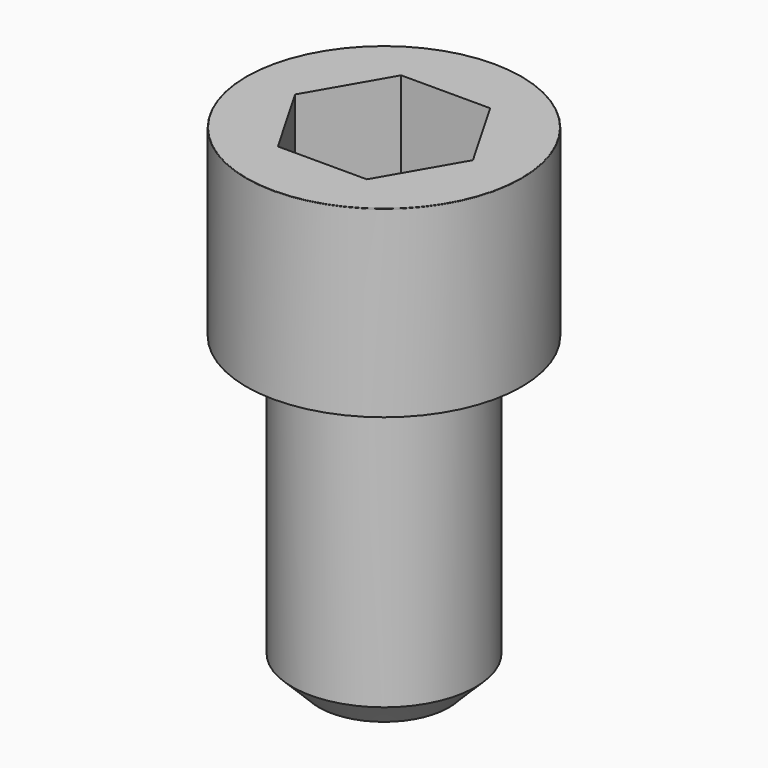
from build123d import *

# Parameters (mm, degrees)
POCKET_DEPTH = 10.07


with BuildPart() as part:
    # Sketch → Revolve (revolve)
    with BuildSketch(Plane.YZ):
        with BuildLine():
            Line((5.999, 0), (9, 0))
            Line((9, 0), (9, 11.97229))
            ThreePointArc((9, 11.97229), (8.991884, 11.991884), (8.97229, 12))
            Line((8.97229, 12), (0, 12))
            Line((0, -20), (0, 12))
            Line((4.25, -20), (0, -20))
            Line((6, -18.25), (4.25, -20))
            Line((6, -0.2), (6, -18.25))
            Line((5.999, 0), (6, -0.2))
        make_face()
    revolve(axis=Axis((0, 0, 0), (0, 0, 1)))

    # Sketch001 → Pocket (cut)
    with BuildSketch(Plane.XY.offset(12)):
        Polygon((5.813917, 0), (2.906959, 5.035), (-2.906959, 5.035), (-5.813917, 0), (-2.906959, -5.035), (2.906959, -5.035), align=None)
    extrude(amount=-POCKET_DEPTH, mode=Mode.SUBTRACT)


solid = part.part
